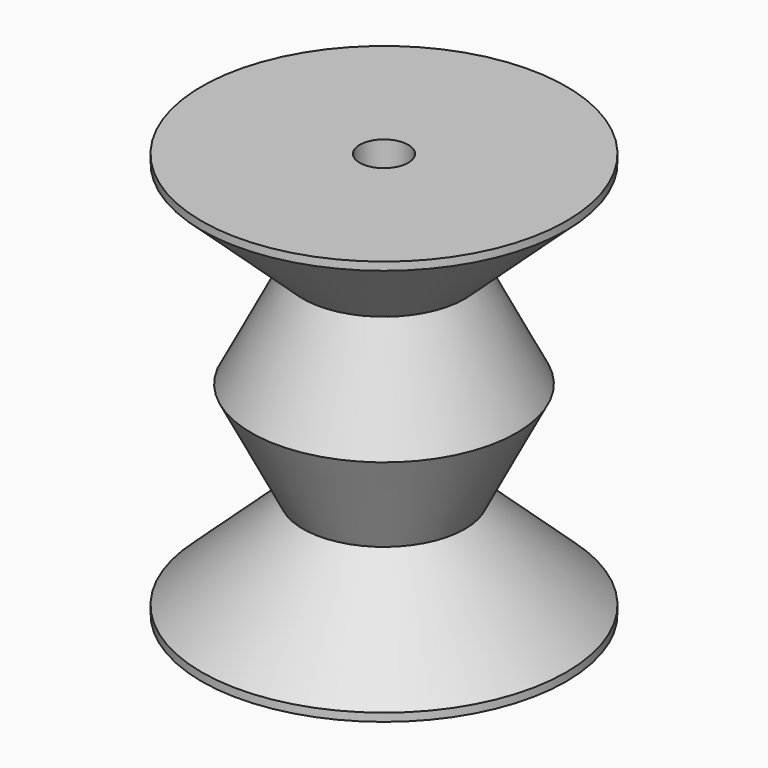
from build123d import *

# Parameters (mm, degrees)
F2_R     = 3
F3_DEPTH = 50


with BuildPart() as f1:
    # F0 (on Front) → F1 (revolve)
    with BuildSketch(Plane.XZ):
        Polygon((0, 12.5), (0, 0), (22.5, 0), (22.5, 1), (10, 12.5), align=None)
        Polygon((0, 25), (0, 12.5), (10, 12.5), (16.372113, 25), align=None)
        Polygon((0, 37.5), (0, 25), (16.372113, 25), (10, 37.5), align=None)
        Polygon((0, 50), (0, 37.5), (10, 37.5), (22.5, 49), (22.5, 50), align=None)
    revolve(axis=Axis((0, 0, 25), (0, 0, 1)))

    # F2 (on face) → F3 (cut)
    with BuildSketch(Plane.XY.offset(50)):
        Circle(F2_R)
    extrude(amount=-F3_DEPTH, mode=Mode.SUBTRACT)


solid = f1.part
